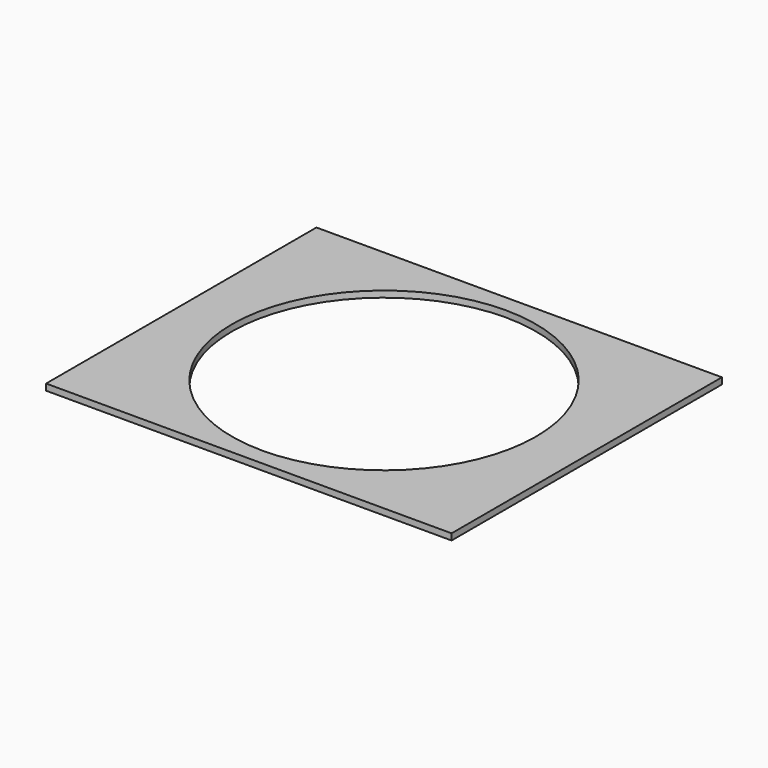
from build123d import *

# Parameters (mm, degrees)
F0_W     = 609.6
F0_H     = 508
F0_R     = 228.6
F1_DEPTH = 9.525


with BuildPart() as f1:
    # F0 (on Top) → F1 (new body)
    with BuildSketch(Plane.XY):
        Rectangle(F0_W, F0_H)
        Circle(F0_R, mode=Mode.SUBTRACT)
        Rectangle(F0_W, F0_H)
        Circle(F0_R, mode=Mode.SUBTRACT)
    extrude(amount=F1_DEPTH)


solid = f1.part
